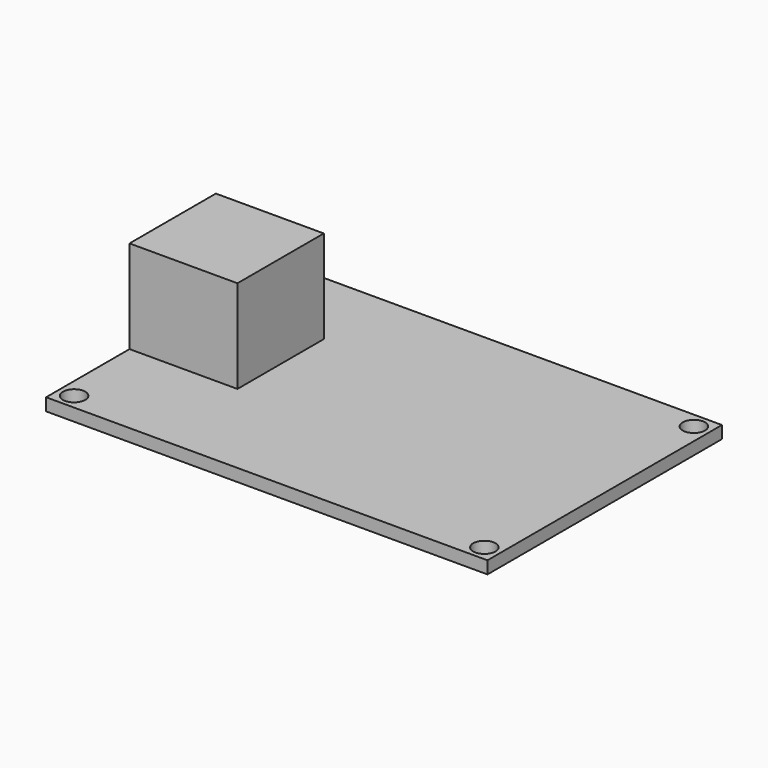
from build123d import *

# Parameters (mm, degrees)
F0_W     = 60.25
F0_H     = 40
F1_DEPTH = 1.7
F2_R     = 1.524
F3_DEPTH = 1.701
F4_W     = 14.732
F4_H     = 14.732
F5_DEPTH = 12.7


with BuildPart() as f1:
    # F0 (on Top) → F1 (new body)
    with BuildSketch(Plane.XY):
        Rectangle(F0_W, F0_H)
    extrude(amount=F1_DEPTH)

    # F2 (on face) → F3 (cut, through all)
    with BuildSketch(Plane.XY.offset(1.7)):
        with Locations((-28, 17.875)):
            Circle(F2_R)
        with Locations((28, 17.875)):
            Circle(F2_R)
        with Locations((28, -17.875)):
            Circle(F2_R)
        with Locations((-28, -17.875)):
            Circle(F2_R)
    extrude(amount=-F3_DEPTH, mode=Mode.SUBTRACT)

    # F4 (on face) → F5 (join)
    with BuildSketch(Plane.XY.offset(1.7)):
        with Locations((-22.759, 1.6)):
            Rectangle(F4_W, F4_H)
    extrude(amount=F5_DEPTH)


solid = f1.part
